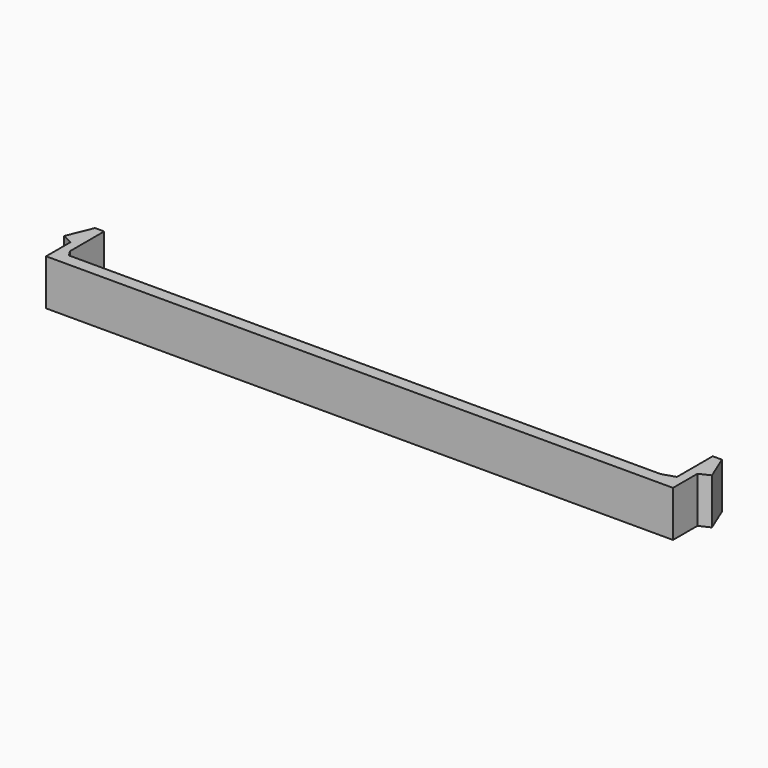
from build123d import *

# Parameters (mm, degrees)
F1_DEPTH = 7.5


with BuildPart() as f1:
    # F0 (on Top) → F1 (new body)
    with BuildSketch(Plane.XY):
        Polygon((-50.989201, 2), (-52.489201, 2), (-52.489201, 0), (50.010799, 0), (50.010799, 2), (48.510799, 2), (46.381295, 2), (-50.367929, 2), align=None)
        Polygon((48.510799, 2), (50.010799, 2), (50.010799, 5), (50.010799, 10), (48.510799, 10), (48.510799, 2.672095), align=None)
        Polygon((48.510799, 2.672095), (46.381295, 2), (48.510799, 2), align=None)
        Polygon((-52.489201, 5), (-52.489201, 2), (-50.989201, 2), (-50.989201, 2.994474), (-50.989201, 10), (-52.489201, 10), align=None)
        Polygon((50.010799, 10), (50.010799, 5), (51.734168, 5.8), align=None)
        Polygon((-54.21257, 5.8), (-52.489201, 5), (-52.489201, 10), align=None)
        Polygon((-50.989201, 2.994474), (-50.989201, 2), (-50.367929, 2), align=None)
    extrude(amount=F1_DEPTH)


solid = f1.part
